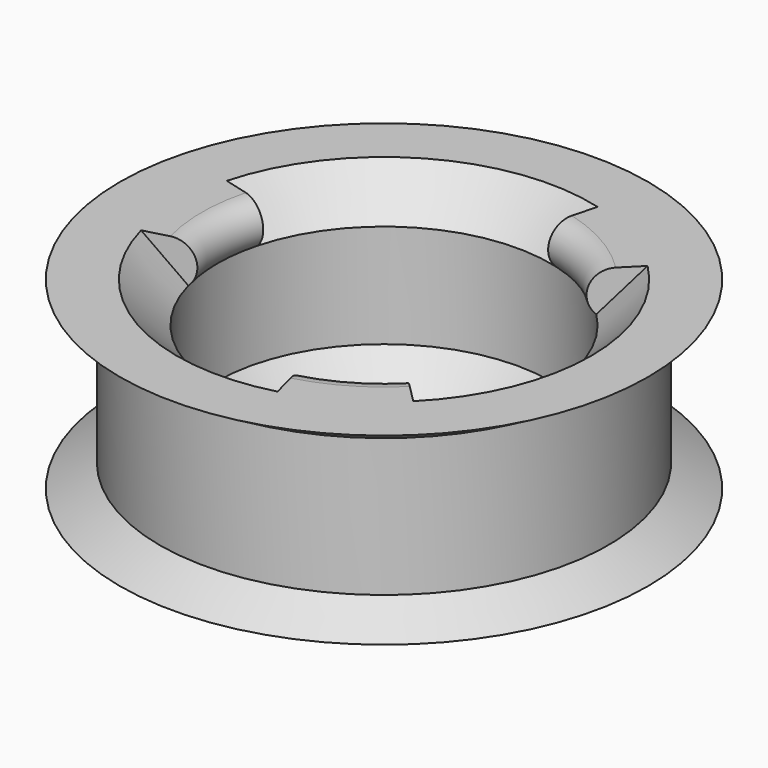
from build123d import *

# Parameters (mm, degrees)
F2_ANGLE_BACK = 15
F2_ANGLE      = 30
F3_COUNT      = 3
F4_R          = 1


with BuildPart() as f1:
    # F0 (on Front) → F1 (revolve)
    with BuildSketch(Plane.XZ):
        Polygon((-7.25, -2.25), (-7.25, 2.25), (-9, 4), (-11.4780508076, 4), (-9.746, 3), (-9.746, -3), (-11.4780508076, -4), (-5.5, -4), align=None)
    revolve(axis=Axis((0, 0, 0), (0, 0, 1)))

    # F0 (on Front) → F2 (revolve)
    with BuildSketch(Plane.XZ, mode=Mode.PRIVATE) as f2_sk:
        Polygon((-9, 4), (-7.25, 2.25), (-5.5, 4), align=None)
    revolve(f2_sk.sketch.rotate(Axis((0, 0, 0), (0, 0, 1)), -F2_ANGLE_BACK), axis=Axis((0, 0, 0), (0, 0, 1)), revolution_arc=F2_ANGLE)

    # F3: F1 ×3 about axis
    f3_axis = Axis((0, 0, 0), (0, 0, 1))


with BuildPart() as f1_1:
    add(f1.part)
    for i in range(1, F3_COUNT):
        add(f1.part.rotate(f3_axis, i * 360 / F3_COUNT))

    # F4
    f4_edges = [f1_1.edges().sort_by_distance(p)[0] for p in [
        (2.75, 4.76314, 4),
        (-5.5, 0, 4),
        (2.75, -4.76314, 4),
    ]]
    fillet(f4_edges, radius=F4_R)


solid = f1_1.part
